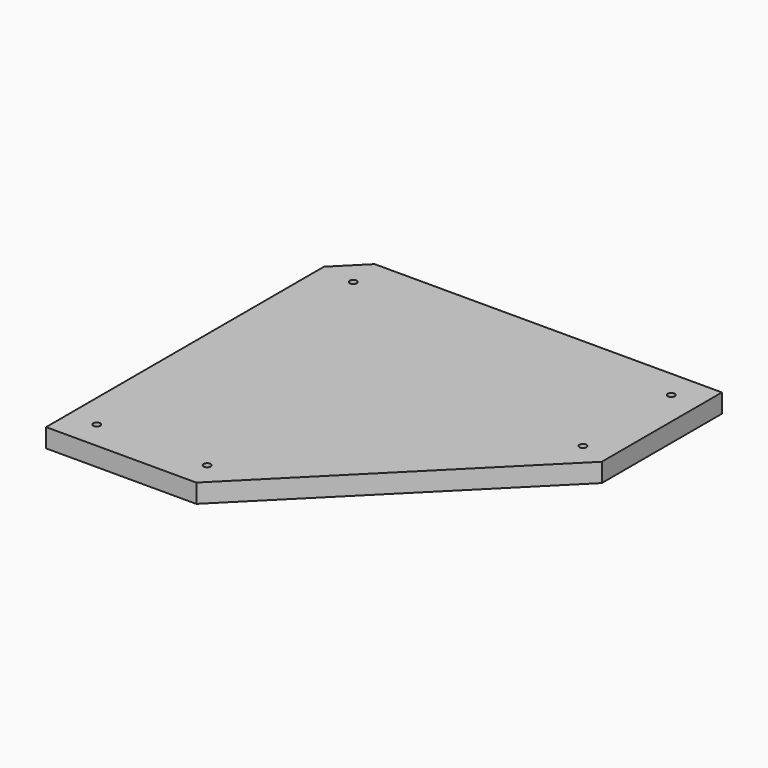
from build123d import *

# Parameters (mm, degrees)
F1_DEPTH = 50.8
F2_DEPTH = 19.05
F3_R     = 9.525
F4_DEPTH = 19.05


with BuildPart() as f1:
    # F0 (on Top) → F1 (new body)
    with BuildSketch(Plane.XY):
        Polygon((0, -76.2), (0, -1016), (406.4, -1016), (1016, -406.4), (1016, 0), (76.2, 0), align=None)
        Polygon((398.509232, -996.95), (19.05, -996.95), (19.05, -84.090768), (84.090768, -19.05), (996.95, -19.05), (996.95, -398.509232), align=None, mode=Mode.SUBTRACT)
    extrude(amount=-F1_DEPTH)

    # F0 (on Top) → F2 (join)
    with BuildSketch(Plane.XY):
        Polygon((19.05, -84.090768), (19.05, -996.95), (398.509232, -996.95), (996.95, -398.509232), (996.95, -19.05), (84.090768, -19.05), align=None)
    extrude(amount=-F2_DEPTH)

    # F3 (on face) → F4 (cut, through all)
    with BuildSketch(Plane(origin=(0, 0, -19.05), x_dir=(1, 0, 0), z_dir=(0, 0, -1))):
        with Locations((76.2, 939.8)):
            Circle(F3_R)
        with Locations((91.981537, 91.981537)):
            Circle(F3_R)
        with Locations((374.836927, 939.8)):
            Circle(F3_R)
        with Locations((939.8, 374.836927)):
            Circle(F3_R)
        with Locations((939.8, 76.2)):
            Circle(F3_R)
    extrude(amount=-F4_DEPTH, mode=Mode.SUBTRACT)


solid = f1.part
